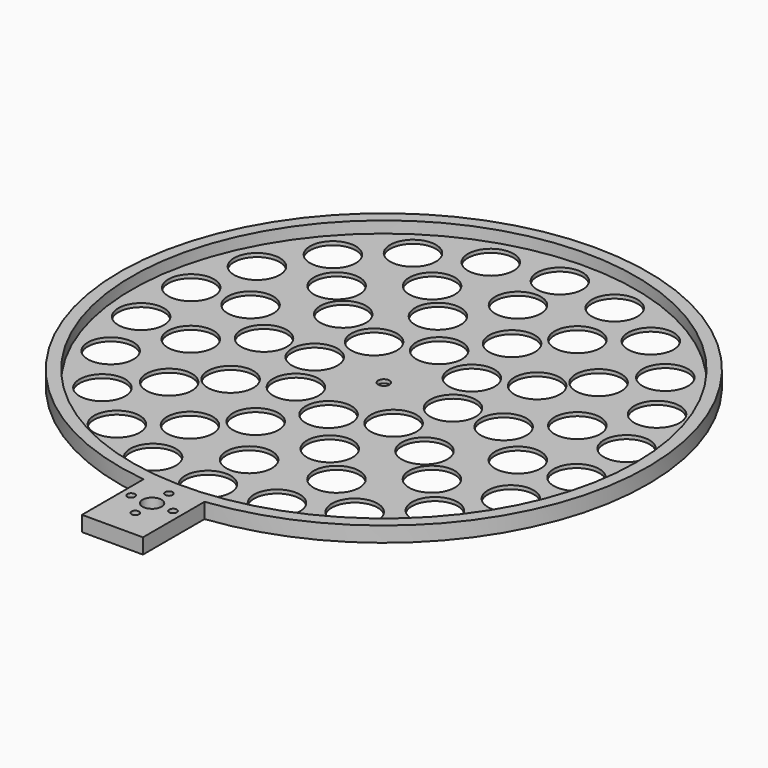
from build123d import *

# Parameters (mm, degrees)
F0_R     = 105
F0_R_2   = 9.525
F0_R_3   = 2.38125
F1_DEPTH = 1.51892
F0_R_4   = 1.5875
F0_R_5   = 3.96875
F2_DEPTH = 6.35


with BuildPart() as f1:
    # F0 (on Top) → F1 (new body)
    with BuildSketch(Plane.XY):
        Circle(F0_R)
        with Locations((-25.8172762563, -87.9291171444)):
            Circle(F0_R_2, mode=Mode.SUBTRACT)
        with Locations((-69.2700381092, -59.9976934177)):
            Circle(F0_R_2, mode=Mode.SUBTRACT)
        with Locations((-83.3670032589, -38.0526498778)):
            Circle(F0_R_2, mode=Mode.SUBTRACT)
        with Locations((-49.5616522705, -77.0824494895)):
            Circle(F0_R_2, mode=Mode.SUBTRACT)
        with Locations((-30.5183343181, -62.8303570772)):
            Circle(F0_R_2, mode=Mode.SUBTRACT)
        with Locations((-0.2741651524, -69.8494619412)):
            Circle(F0_R_2, mode=Mode.SUBTRACT)
        with Locations((-15.4115002745, -47.472029452)):
            Circle(F0_R_2, mode=Mode.SUBTRACT)
        with Locations((-54.7328139874, -43.3974834872)):
            Circle(F0_R_2, mode=Mode.SUBTRACT)
        with Locations((-40.369082958, -29.3503843608)):
            Circle(F0_R_2, mode=Mode.SUBTRACT)
        with Locations((-20.3645865451, -20.3645865451)):
            Circle(F0_R_2, mode=Mode.SUBTRACT)
        with Locations((0, -91.640937332)):
            Circle(F0_R_2, mode=Mode.SUBTRACT)
        with Locations((25.8172762563, -87.9291171444)):
            Circle(F0_R_2, mode=Mode.SUBTRACT)
        with Locations((15.4312446271, -47.4656150309)):
            Circle(F0_R_2, mode=Mode.SUBTRACT)
        with Locations((30.5183343181, -62.8303570772)):
            Circle(F0_R_2, mode=Mode.SUBTRACT)
        with Locations((49.5431490419, -77.0943433599)):
            Circle(F0_R_2, mode=Mode.SUBTRACT)
        with Locations((0, -28.7998744842)):
            Circle(F0_R_2, mode=Mode.SUBTRACT)
        with Locations((20.3645865451, -20.3645865451)):
            Circle(F0_R_2, mode=Mode.SUBTRACT)
        with Locations((54.7328139874, -43.3974834872)):
            Circle(F0_R_2, mode=Mode.SUBTRACT)
        with Locations((40.3812875698, -29.3335905611)):
            Circle(F0_R_2, mode=Mode.SUBTRACT)
        with Locations((69.2556351005, -60.0143183075)):
            Circle(F0_R_2, mode=Mode.SUBTRACT)
        with Locations((83.3578672276, -38.0726590396)):
            Circle(F0_R_2, mode=Mode.SUBTRACT)
        with Locations((-90.7105821014, -13.0250408793)):
            Circle(F0_R_2, mode=Mode.SUBTRACT)
        with Locations((-90.7058866972, 13.0576993976)):
            Circle(F0_R_2, mode=Mode.SUBTRACT)
        with Locations((-68.1334048588, -15.3903100147)):
            Circle(F0_R_2, mode=Mode.SUBTRACT)
        with Locations((-68.0724721963, 15.6576188828)):
            Circle(F0_R_2, mode=Mode.SUBTRACT)
        with Locations((-83.3532974111, 38.082662798)):
            Circle(F0_R_2, mode=Mode.SUBTRACT)
        with Locations((-49.9109956825, -0.0207601598)):
            Circle(F0_R_2, mode=Mode.SUBTRACT)
        with Locations((-28.7998744842, 0)):
            Circle(F0_R_2, mode=Mode.SUBTRACT)
        with Locations((-40.3934851952, 29.3167916865)):
            Circle(F0_R_2, mode=Mode.SUBTRACT)
        with Locations((-54.5620548299, 43.6119785464)):
            Circle(F0_R_2, mode=Mode.SUBTRACT)
        with Locations((-20.3645865451, 20.3645865451)):
            Circle(F0_R_2, mode=Mode.SUBTRACT)
        with Locations((-69.2484320998, 60.0226294559)):
            Circle(F0_R_2, mode=Mode.SUBTRACT)
        with Locations((-49.5338963572, 77.1002886296)):
            Circle(F0_R_2, mode=Mode.SUBTRACT)
        with Locations((-30.2714865718, 62.9496592583)):
            Circle(F0_R_2, mode=Mode.SUBTRACT)
        with Locations((-15.4509863099, 47.4591923978)):
            Circle(F0_R_2, mode=Mode.SUBTRACT)
        with Locations((-25.8067234281, 87.9322149214)):
            Circle(F0_R_2, mode=Mode.SUBTRACT)
        Circle(F0_R_3, mode=Mode.SUBTRACT)
        with Locations((28.7998744842, 0)):
            Circle(F0_R_2, mode=Mode.SUBTRACT)
        with Locations((49.911, 0)):
            Circle(F0_R_2, mode=Mode.SUBTRACT)
        with Locations((0, 28.7998744842)):
            Circle(F0_R_2, mode=Mode.SUBTRACT)
        with Locations((20.3645865451, 20.3645865451)):
            Circle(F0_R_2, mode=Mode.SUBTRACT)
        with Locations((40.3812875698, 29.3335905611)):
            Circle(F0_R_2, mode=Mode.SUBTRACT)
        with Locations((54.5620548299, 43.6119785464)):
            Circle(F0_R_2, mode=Mode.SUBTRACT)
        with Locations((68.1334048588, -15.3903100147)):
            Circle(F0_R_2, mode=Mode.SUBTRACT)
        with Locations((68.0724721963, 15.6576188828)):
            Circle(F0_R_2, mode=Mode.SUBTRACT)
        with Locations((90.7074531384, -13.0468134127)):
            Circle(F0_R_2, mode=Mode.SUBTRACT)
        with Locations((90.7090182732, 13.0359272399)):
            Circle(F0_R_2, mode=Mode.SUBTRACT)
        with Locations((83.3624358436, 38.0626547328)):
            Circle(F0_R_2, mode=Mode.SUBTRACT)
        with Locations((15.4312446271, 47.4656150309)):
            Circle(F0_R_2, mode=Mode.SUBTRACT)
        with Locations((0, 69.85)):
            Circle(F0_R_2, mode=Mode.SUBTRACT)
        with Locations((30.2714865718, 62.9496592583)):
            Circle(F0_R_2, mode=Mode.SUBTRACT)
        with Locations((49.5524010131, 77.0883969799)):
            Circle(F0_R_2, mode=Mode.SUBTRACT)
        with Locations((0.0109981092, 91.640936672)):
            Circle(F0_R_2, mode=Mode.SUBTRACT)
        with Locations((25.8278287127, 87.9260181009)):
            Circle(F0_R_2, mode=Mode.SUBTRACT)
        with Locations((69.2628371036, 60.0060062947)):
            Circle(F0_R_2, mode=Mode.SUBTRACT)
    extrude(amount=F1_DEPTH)

    # F0 (on Top) → F2 (join)
    with BuildSketch(Plane.XY):
        with BuildLine():
            Line((-12.7, -108), (-12.7, -109.2644040848))
            ThreePointArc((-12.7, -109.2644040848), (0, -110), (12.7, -109.2644040848))
            Line((12.7, -109.2644040848), (12.7, -108))
            Line((12.7, -108), (-12.7, -108))
        make_face()
        with BuildLine():
            ThreePointArc((12.7, -109.2644040848), (82.1492544093, -73.1539472619), (110, 0))
            ThreePointArc((110, 0), (-73.1539472619, 82.1492544093), (-12.7, -109.2644040848))
            Line((-12.7, -109.2644040848), (-12.7, -108))
            Line((-12.7, -108), (12.7, -108))
            Line((12.7, -108), (12.7, -109.2644040848))
        make_face()
        Circle(F0_R, mode=Mode.SUBTRACT)
        with BuildLine():
            ThreePointArc((12.7, -109.2644040848), (82.1492544093, -73.1539472619), (110, 0))
            ThreePointArc((110, 0), (-73.1539472619, 82.1492544093), (-12.7, -109.2644040848))
            Line((-12.7, -109.2644040848), (-12.7, -108))
            Line((-12.7, -108), (12.7, -108))
            Line((12.7, -108), (12.7, -109.2644040848))
        make_face()
        Circle(F0_R, mode=Mode.SUBTRACT)
        with BuildLine():
            ThreePointArc((12.7, -109.2644040848), (0, -110), (-12.7, -109.2644040848))
            Line((-12.7, -109.2644040848), (-12.7, -141.3375))
            Line((-12.7, -141.3375), (12.7, -141.3375))
            Line((12.7, -141.3375), (12.7, -109.2644040848))
        make_face()
        with Locations((-8.73125, -120.7)):
            Circle(F0_R_4, mode=Mode.SUBTRACT)
        with Locations((0, -129.43125)):
            Circle(F0_R_4, mode=Mode.SUBTRACT)
        with Locations((0, -120.7)):
            Circle(F0_R_5, mode=Mode.SUBTRACT)
        with Locations((8.73125, -120.7)):
            Circle(F0_R_4, mode=Mode.SUBTRACT)
        with Locations((0, -111.96875)):
            Circle(F0_R_4, mode=Mode.SUBTRACT)
    extrude(amount=F2_DEPTH)


solid = f1.part
